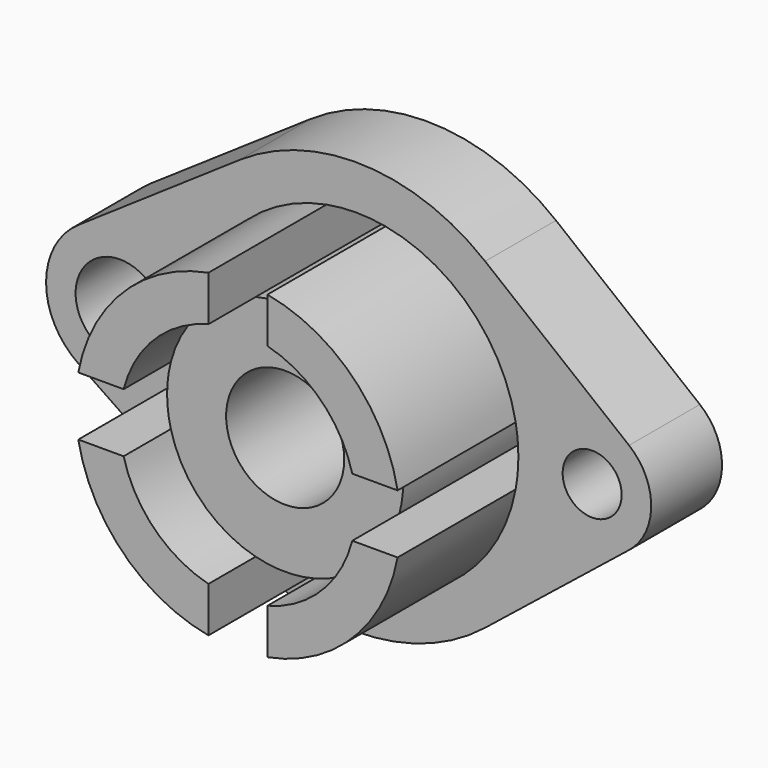
from build123d import *

# Parameters (mm, degrees)
F0_R     = 9.525
F1_DEPTH = 19.05
F2_DEPTH = 50.8
F3_DEPTH = 38.1


with BuildPart() as f1:
    # F0 (on Front) → F1 (new body)
    with BuildSketch(Plane.XZ):
        with BuildLine():
            Line((-59.729688, -13.125407), (-25.003125, -36.751139))
            ThreePointArc((-25.003125, -36.751139), (1.727006, -44.416438), (27.78125, -34.69877))
            Line((27.78125, -34.69877), (58.7375, -9.913934))
            ThreePointArc((58.7375, -9.913934), (63.5, 0), (58.7375, 9.913934))
            Line((58.7375, 9.913934), (27.78125, 34.69877))
            ThreePointArc((27.78125, 34.69877), (1.727006, 44.416438), (-25.003125, 36.751139))
            Line((-25.003125, 36.751139), (-59.729688, 13.125407))
            ThreePointArc((-59.729688, 13.125407), (-66.675, 0), (-59.729688, -13.125407))
        make_face()
        with Locations((-50.8, 0)):
            Circle(F0_R, mode=Mode.SUBTRACT)
        with BuildLine():
            ThreePointArc((34.342876, 6.35), (34.779164, 3.188313), (34.925, 0))
            ThreePointArc((34.925, 0), (34.779164, -3.188313), (34.342876, -6.35))
            ThreePointArc((34.342876, -6.35), (24.695704, -24.695704), (6.35, -34.342876))
            ThreePointArc((6.35, -34.342876), (0, -34.925), (-6.35, -34.342876))
            ThreePointArc((-6.35, -34.342876), (-24.695704, -24.695704), (-34.342876, -6.35))
            ThreePointArc((-34.342876, -6.35), (-34.779164, -3.188313), (-34.925, 0))
            ThreePointArc((-34.925, 0), (-34.779164, 3.188313), (-34.342876, 6.35))
            ThreePointArc((-34.342876, 6.35), (-24.695704, 24.695704), (-6.35, 34.342876))
            ThreePointArc((-6.35, 34.342876), (0, 34.925), (6.35, 34.342876))
            ThreePointArc((6.35, 34.342876), (24.695704, 24.695704), (34.342876, 6.35))
        make_face(mode=Mode.SUBTRACT)
        with BuildLine():
            ThreePointArc((57.15, 0), (50.8, -6.35), (44.45, 0))
            ThreePointArc((44.45, 0), (50.8, 6.35), (57.15, 0))
        make_face(mode=Mode.SUBTRACT)
    extrude(amount=F1_DEPTH)

    # F0 (on Front) → F2 (join)
    with BuildSketch(Plane.XZ):
        with BuildLine():
            Line((-34.342876, 6.35), (-24.593444, 6.35))
            ThreePointArc((-24.593444, 6.35), (-17.960512, 17.960512), (-6.35, 24.593444))
            Line((-6.35, 24.593444), (-6.35, 34.342876))
            ThreePointArc((-6.35, 34.342876), (-24.695704, 24.695704), (-34.342876, 6.35))
        make_face()
        with BuildLine():
            ThreePointArc((6.35, 24.593444), (17.960512, 17.960512), (24.593444, 6.35))
            Line((24.593444, 6.35), (34.342876, 6.35))
            ThreePointArc((34.342876, 6.35), (24.695704, 24.695704), (6.35, 34.342876))
            Line((6.35, 34.342876), (6.35, 24.593444))
        make_face()
        with BuildLine():
            Line((34.342876, -6.35), (24.593444, -6.35))
            ThreePointArc((24.593444, -6.35), (17.960512, -17.960512), (6.35, -24.593444))
            Line((6.35, -24.593444), (6.35, -34.342876))
            ThreePointArc((6.35, -34.342876), (24.695704, -24.695704), (34.342876, -6.35))
        make_face()
        with BuildLine():
            ThreePointArc((-6.35, -24.593444), (-17.960512, -17.960512), (-24.593444, -6.35))
            Line((-24.593444, -6.35), (-34.342876, -6.35))
            ThreePointArc((-34.342876, -6.35), (-24.695704, -24.695704), (-6.35, -34.342876))
            Line((-6.35, -34.342876), (-6.35, -24.593444))
        make_face()
    extrude(amount=F2_DEPTH)

    # F0 (on Front) → F3 (join)
    with BuildSketch(Plane.XZ):
        with BuildLine():
            ThreePointArc((-12.7, 0), (0, 12.7), (12.7, 0))
            Line((12.7, 0), (25.4, 0))
            ThreePointArc((25.4, 0), (25.197554, 3.200509), (24.593444, 6.35))
            ThreePointArc((24.593444, 6.35), (17.960512, 17.960512), (6.35, 24.593444))
            ThreePointArc((6.35, 24.593444), (0, 25.4), (-6.35, 24.593444))
            ThreePointArc((-6.35, 24.593444), (-17.960512, 17.960512), (-24.593444, 6.35))
            ThreePointArc((-24.593444, 6.35), (-25.197554, 3.200509), (-25.4, 0))
            Line((-25.4, 0), (-12.7, 0))
        make_face()
        with BuildLine():
            Line((25.4, 0), (12.7, 0))
            ThreePointArc((12.7, 0), (0, -12.7), (-12.7, 0))
            Line((-12.7, 0), (-25.4, 0))
            ThreePointArc((-25.4, 0), (-25.197554, -3.200509), (-24.593444, -6.35))
            ThreePointArc((-24.593444, -6.35), (-17.960512, -17.960512), (-6.35, -24.593444))
            ThreePointArc((-6.35, -24.593444), (0, -25.4), (6.35, -24.593444))
            ThreePointArc((6.35, -24.593444), (17.960512, -17.960512), (24.593444, -6.35))
            ThreePointArc((24.593444, -6.35), (25.197554, -3.200509), (25.4, 0))
        make_face()
    extrude(amount=F3_DEPTH)


solid = f1.part
